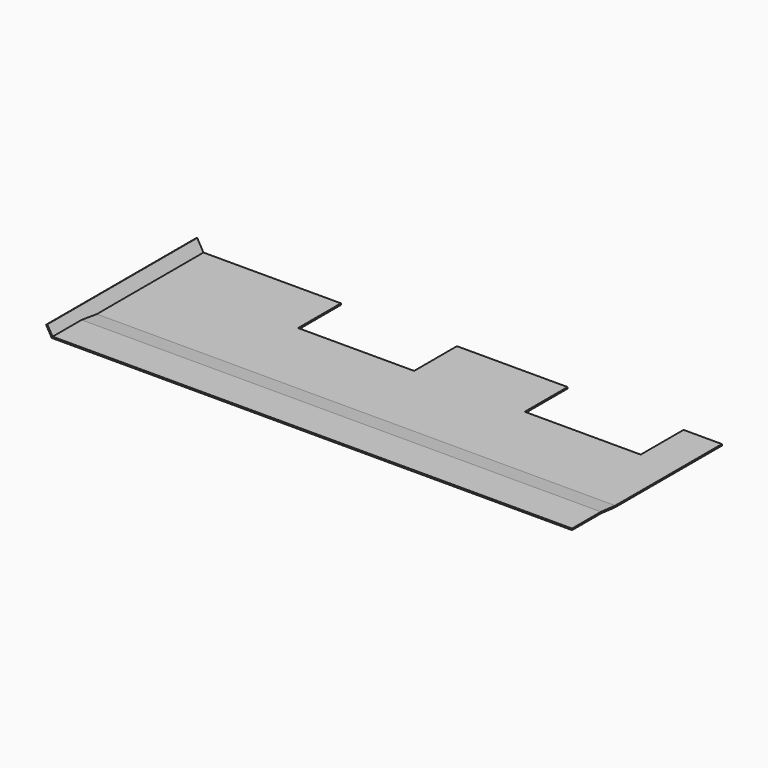
from build123d import *

# Parameters (mm, degrees)
F1_DEPTH = 1179
F2_W     = 260
F2_H     = 120
F3_DEPTH = 25
F5_DEPTH = 420
F7_DEPTH = 420
F9_DEPTH = 1200


with BuildPart() as f1:
    # F0 (on Right) → F1 (new body)
    with BuildSketch(Plane.YZ):
        Polygon((81, 4), (121, 0), (420, 0), (420, 3.2), (121.159602, 3.2), (81.159602, 7.2), (0, 7.2), (0, 4), align=None)
    extrude(amount=F1_DEPTH)

    # F2 (on face) → F3 (cut)
    with BuildSketch(Plane.XY.offset(3.2)):
        with Locations((455, 360)):
            Rectangle(F2_W, F2_H)
        with Locations((963, 360)):
            Rectangle(F2_W, F2_H)
    extrude(amount=-F3_DEPTH, mode=Mode.SUBTRACT)

    # F4 (on face) → F5 (join)
    with BuildSketch(Plane(origin=(0, 420, 0), x_dir=(-1, 0, 0), z_dir=(0, 1, 0))):
        Polygon((-17.771794, 1.599112), (-15, 0), (0, 26), (-2.771794, 27.599112), align=None)
    extrude(amount=-F5_DEPTH)

    # F6 (on face) → F7 (cut)
    with BuildSketch(Plane.XZ):
        Polygon((15, 0), (12.692308, 4), (0, 4), (0, 0), align=None)
        Polygon((12.692308, 4), (10.846154, 7.2), (0, 7.2), (0, 4), align=None)
    extrude(amount=-F7_DEPTH, mode=Mode.SUBTRACT)

    # F8 (on face) → F9 (cut)
    with BuildSketch(Plane.YZ.offset(1179)):
        Polygon((81, 4), (0, 4), (0, 0), (121, 0), align=None)
    extrude(amount=-F9_DEPTH, mode=Mode.SUBTRACT)


solid = f1.part
